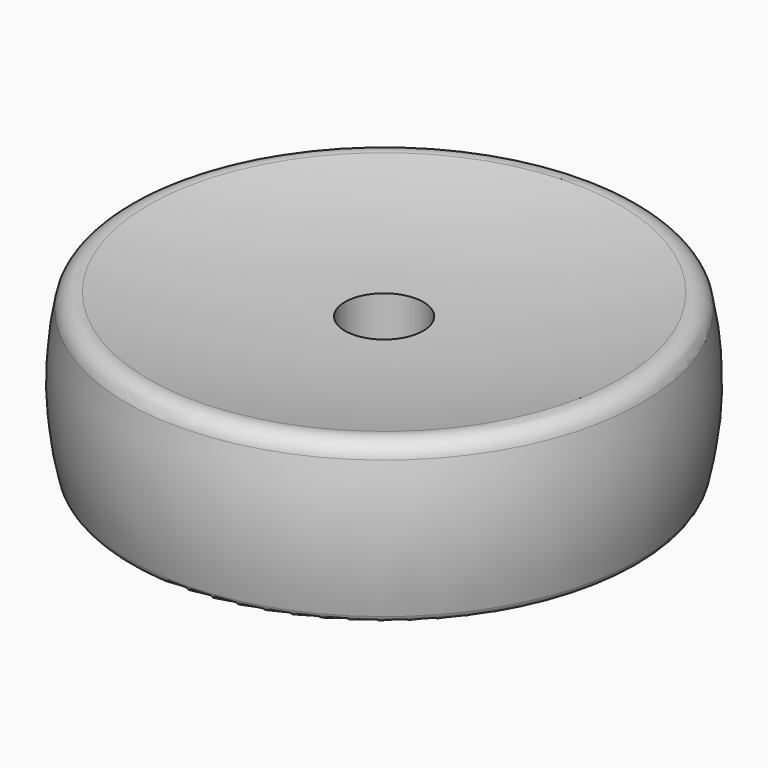
from build123d import *

# Parameters (mm, degrees)
F4_D = 4.3


with BuildPart() as f1:
    # F0 (on Front) → F1 (revolve)
    with BuildSketch(Plane.XZ):
        with BuildLine():
            Line((5, 1.5), (5, 5.608098))
            ThreePointArc((5, 5.608098), (5.146447, 5.961651), (5.5, 6.108098))
            Line((5.5, 6.108098), (11.893596, 6.108098))
            ThreePointArc((11.893596, 6.108098), (12.24715, 5.961651), (12.393596, 5.608098))
            Line((12.393596, 5.608098), (12.393596, 0.5))
            ThreePointArc((12.393596, 0.5), (12.540043, 0.146447), (12.893596, 0))
            Line((12.893596, 0), (13.507811, 0))
            ThreePointArc((13.507811, 0), (13.815539, 0.105915), (13.992896, 0.378788))
            ThreePointArc((13.992896, 0.378788), (14.497159, 4.189226), (14.132525, 8.015551))
            ThreePointArc((14.132525, 8.015551), (13.698193, 8.647806), (12.943745, 8.78637))
            ThreePointArc((12.943745, 8.78637), (6.507342, 7.812886), (0, 7.641275))
            Line((0, 7.641275), (0, 1))
            Line((0, 1), (4.5, 1))
            ThreePointArc((4.5, 1), (4.853553, 1.146447), (5, 1.5))
        make_face()
    revolve(axis=Axis((0, 0, 3.854545), (0, 0, -1)))

    # F4 (through all)
    with Locations(Plane(origin=(0, 0, 1), x_dir=(1, 0, 0), z_dir=(0, 0, -1))):
        with Locations((0, 0)):
            Hole(F4_D / 2)


solid = f1.part
